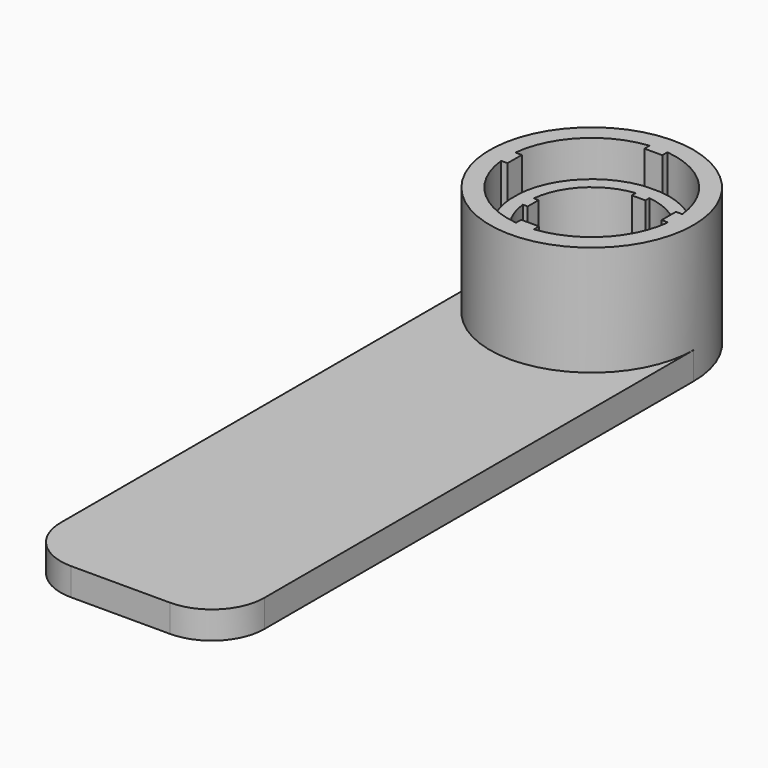
from build123d import *

# Parameters (mm, degrees)
F1_DEPTH = 2
F2_DEPTH = 10
F3_SCALE = 1.315
F4_R     = 5


with BuildPart() as f1:
    # F0 (on Top) → F1 (new body)
    with BuildSketch(Plane.XY):
        with BuildLine():
            Line((7.4, -42.808201164), (7.4, 0))
            ThreePointArc((7.4, 0), (0, -7.4), (-7.4, 0))
            Line((-7.4, 0), (-7.4, -42.808201164))
            Line((-7.4, -42.808201164), (7.4, -42.808201164))
        make_face()
    extrude(amount=F1_DEPTH)

    # F0 (on Top) → F2 (join)
    with BuildSketch(Plane.XY):
        with BuildLine():
            ThreePointArc((-7.4, 0), (0, -7.4), (7.4, 0))
            ThreePointArc((7.4, 0), (0, 7.4), (-7.4, 0))
        make_face()
        with BuildLine():
            ThreePointArc((6.0652699857, -0.65), (4.3133513652, -4.3133513652), (0.65, -6.0652699857))
            Line((0.65, -6.0652699857), (0.65, -5.6))
            Line((0.65, -5.6), (-0.65, -5.6))
            Line((-0.65, -5.6), (-0.65, -6.0652699857))
            ThreePointArc((-0.65, -6.0652699857), (-4.3133513652, -4.3133513652), (-6.0652699857, -0.65))
            Line((-6.0652699857, -0.65), (-5.6, -0.65))
            Line((-5.6, -0.65), (-5.6, 0.65))
            Line((-5.6, 0.65), (-6.0652699857, 0.65))
            ThreePointArc((-6.0652699857, 0.65), (-4.3133513652, 4.3133513652), (-0.65, 6.0652699857))
            Line((-0.65, 6.0652699857), (-0.65, 5.6))
            Line((-0.65, 5.6), (0.65, 5.6))
            Line((0.65, 5.6), (0.65, 6.0652699857))
            ThreePointArc((0.65, 6.0652699857), (4.3133513652, 4.3133513652), (6.0652699857, 0.65))
            Line((6.0652699857, 0.65), (5.6, 0.65))
            Line((5.6, 0.65), (5.6, -0.65))
            Line((5.6, -0.65), (6.0652699857, -0.65))
        make_face(mode=Mode.SUBTRACT)
    extrude(amount=F2_DEPTH)


with BuildPart() as f3_1:
    # F3: copy of F1
    add(f1.part.scale(F3_SCALE))

    # F4
    f4_edges = [f3_1.edges().sort_by_distance(p)[0] for p in [
        (-9.731, -56.292785, 1.315),
        (9.731, -56.292785, 1.315),
    ]]
    fillet(f4_edges, radius=F4_R)


solid = Compound([f1.part, f3_1.part])
